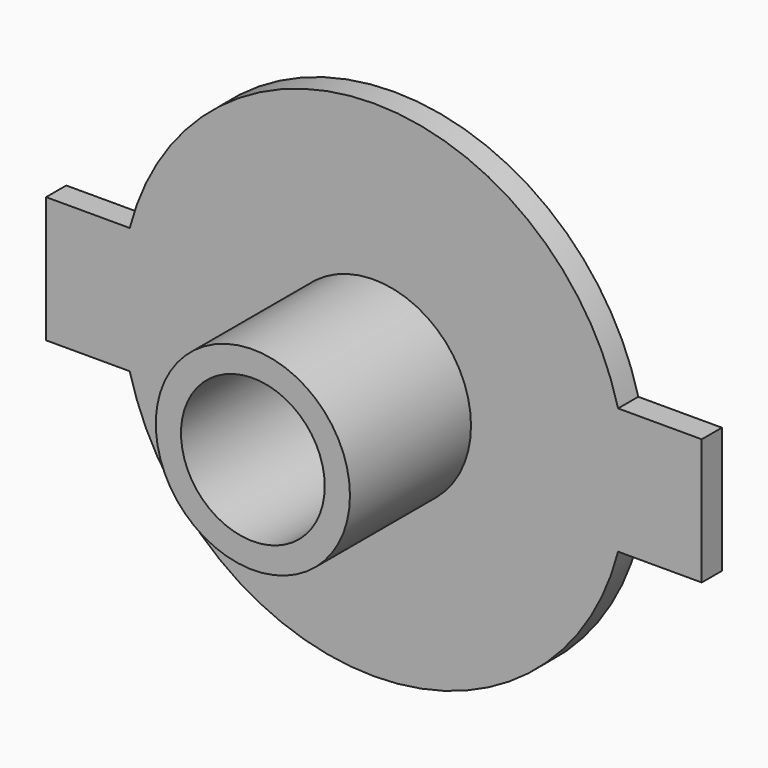
from build123d import *

# Parameters (mm, degrees)
F0_R          = 10
F1_DEPTH      = 1
F3_W          = 26
F3_H          = 5
F4_DEPTH      = 1
F5_R          = 3.85
F5_R_2        = 2.85
F7_DEPTH      = 6
F6_R          = 2.85
F8_DEPTH      = 6.001
F8_DEPTH_BACK = 1.001


with BuildPart() as f1:
    # F0 (on Front) → F1 (new body)
    with BuildSketch(Plane.XZ):
        Circle(F0_R)
    extrude(amount=F1_DEPTH)

    # F3 (on face) → F4 (join)
    with BuildSketch(Plane(origin=(0, 0, 0), x_dir=(-1, 0, 0), z_dir=(0, 1, 0))):
        Rectangle(F3_W, F3_H)
    extrude(amount=-F4_DEPTH)

    # F5 (on face) → F7 (join)
    with BuildSketch(Plane.XZ.offset(1)):
        Circle(F5_R)
        Circle(F5_R_2, mode=Mode.SUBTRACT)
    extrude(amount=F7_DEPTH)

    # F6 (on face) → F8 (cut, two sides)
    with BuildSketch(Plane.XZ.offset(1)) as f8_sk:
        Circle(F6_R)
    extrude(amount=F8_DEPTH, mode=Mode.SUBTRACT)
    extrude(f8_sk.sketch, amount=-F8_DEPTH_BACK, mode=Mode.SUBTRACT)


solid = f1.part
